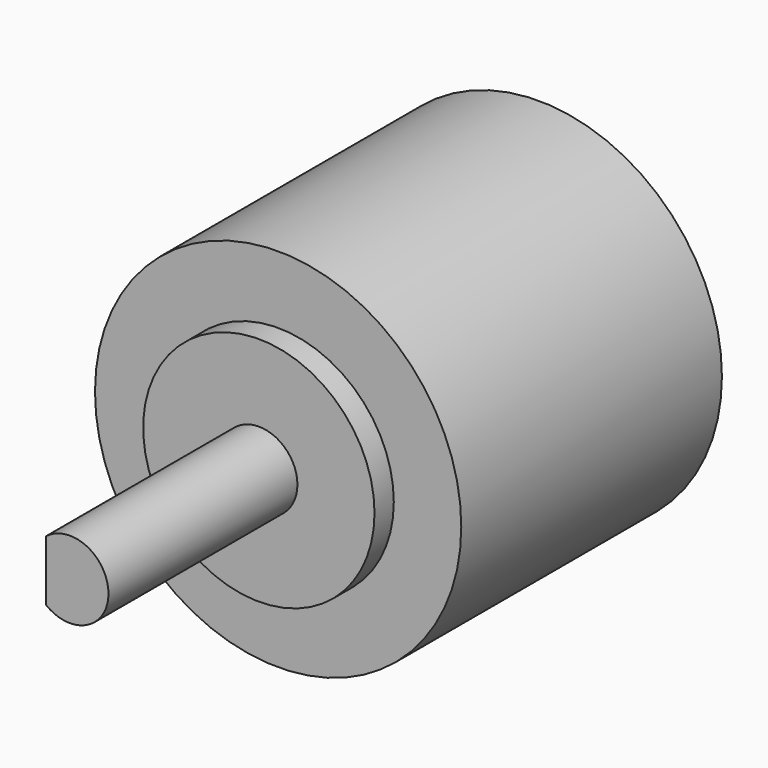
from build123d import *

# Parameters (mm, degrees)
F0_R      = 9.5
F1_DEPTH  = 16.9
F2_R      = 6
F3_DEPTH  = 1.25
F4_R      = 2
F5_DEPTH  = 12.25
F6_W      = 1.523732
F6_H      = 5.739091
F7_DEPTH  = 8
F8_R      = 3.5
F9_DEPTH  = 2
F10_R     = 1.5
F11_DEPTH = 10


with BuildPart() as f1:
    # F0 (on Front) → F1 (new body)
    with BuildSketch(Plane.XZ):
        Circle(F0_R)
    extrude(amount=F1_DEPTH)

    # F2 (on face) → F3 (join)
    with BuildSketch(Plane.XZ.offset(16.9)):
        Circle(F2_R)
    extrude(amount=F3_DEPTH)

    # F4 (on face) → F5 (join)
    with BuildSketch(Plane.XZ.offset(18.15)):
        Circle(F4_R)
    extrude(amount=F5_DEPTH)

    # F6 (on face) → F7 (cut)
    with BuildSketch(Plane.XZ.offset(30.4)):
        with Locations((-1.998623, 0.154332)):
            Rectangle(F6_W, F6_H)
    extrude(amount=-F7_DEPTH, mode=Mode.SUBTRACT)

    # F8 (on face) → F9 (cut)
    with BuildSketch(Plane(origin=(0, 0, 0), x_dir=(-1, 0, 0), z_dir=(0, 1, 0))):
        Circle(F8_R)
    extrude(amount=-F9_DEPTH, mode=Mode.SUBTRACT)

    # F10 (on face) → F11 (cut)
    with BuildSketch(Plane(origin=(0, -2, 0), x_dir=(-1, 0, 0), z_dir=(0, 1, 0))):
        Circle(F10_R)
    extrude(amount=-F11_DEPTH, mode=Mode.SUBTRACT)


solid = f1.part
